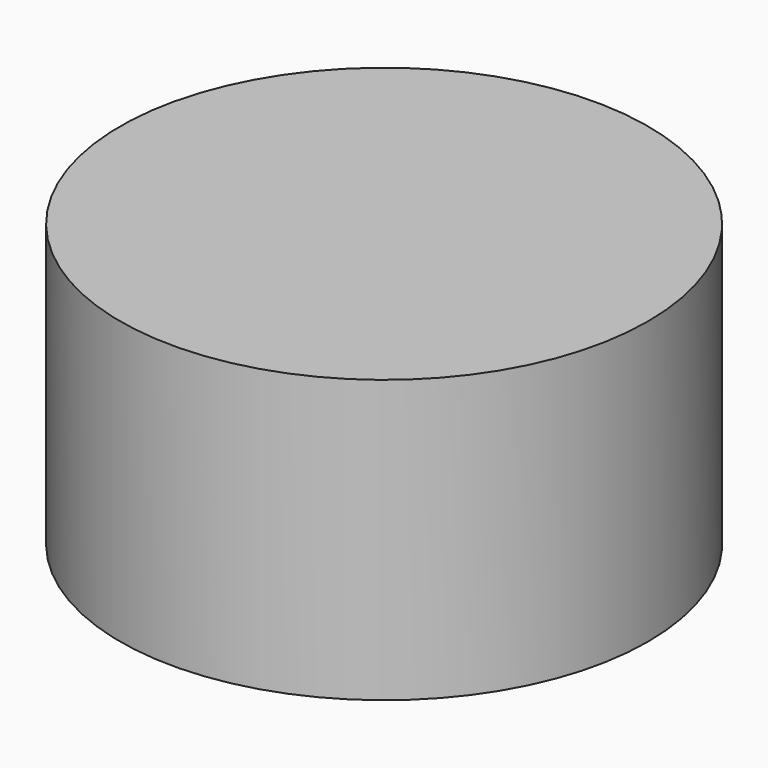
from build123d import *

# Parameters (mm, degrees)
PRISM014_DEPTH    = 1.1
CYLINDER068_R     = 2.34
CYLINDER068_DEPTH = 2.5


with BuildPart() as prism014:
    # Prism014 → Prism014 (new body)
    with BuildSketch(Plane.XY.offset(-23)):
        Polygon((1.1, 0), (0.55, 0.952628), (-0.55, 0.952628), (-1.1, 0), (-0.55, -0.952628), (0.55, -0.952628), align=None)
    extrude(amount=PRISM014_DEPTH)


with BuildPart() as cut060:
    # Cylinder068 → Cylinder068 (new body)
    with BuildSketch(Plane.XY.offset(-23)):
        Circle(CYLINDER068_R)
    extrude(amount=CYLINDER068_DEPTH)

    # Cut060: cut Prism014
    add(prism014.part, mode=Mode.SUBTRACT)


with BuildPart() as cut060_1:
    # Cut060 placement: moved
    add(cut060.part.moved(Location((0, 0, 0.5))))


solid = cut060_1.part
